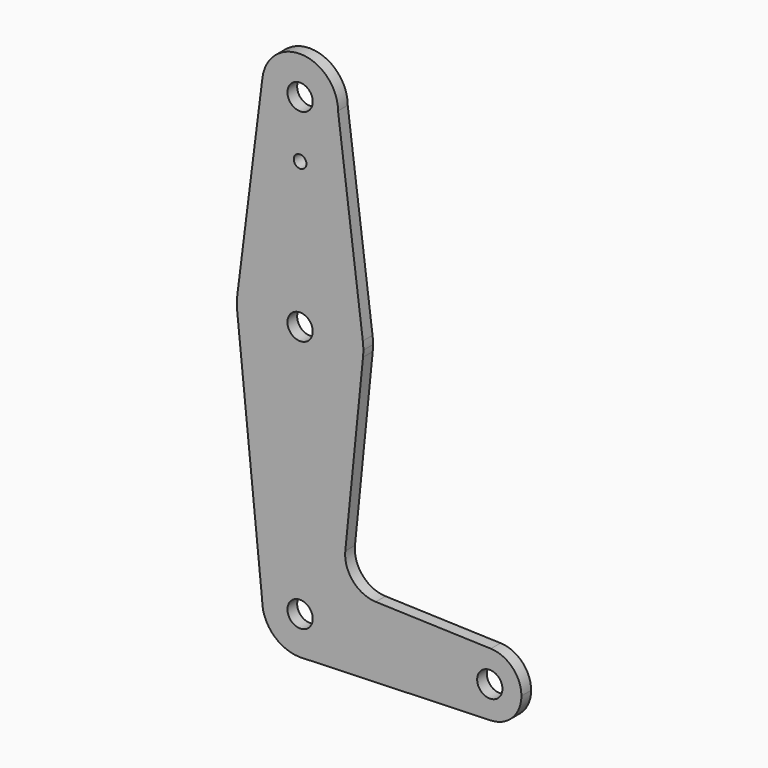
from build123d import *

# Parameters (mm, degrees)
F0_R     = 3.175
F0_R_2   = 1.5875
F1_DEPTH = 3.048


with BuildPart() as f1:
    # F0 (on Front) → F1 (new body)
    with BuildSketch(Plane.XZ):
        with BuildLine():
            ThreePointArc((0.632547, -9.503973), (6.955237, -6.507711), (9.525, 0))
            ThreePointArc((9.525, 0), (0, 9.525), (-9.525, 0))
            ThreePointArc((-9.525, 0), (-6.735192, -6.735192), (0, -9.525))
            Line((0, -9.525), (0.632547, -9.503973))
        make_face()
        Circle(F0_R, mode=Mode.SUBTRACT)
        with BuildLine():
            ThreePointArc((-9.525, 0), (0, 9.525), (9.525, 0))
            ThreePointArc((9.525, 0), (6.955237, -6.507711), (0.632547, -9.503973))
            Line((0.632547, -9.503973), (47.888707, -7.933118))
            ThreePointArc((47.888707, -7.933118), (39.6875, 0.000438), (47.889583, 7.933089))
            Line((47.889583, 7.933089), (18.990985, 8.896911))
            ThreePointArc((18.990985, 8.896911), (13.271886, 11.608559), (11.345642, 17.637713))
            Line((11.345642, 17.637713), (15.795426, 61.9125))
            ThreePointArc((15.795426, 61.9125), (0.006091, 47.625001), (-15.794203, 61.90038))
            Line((-15.794203, 61.90038), (-9.525, 0))
        make_face()
        with BuildLine():
            ThreePointArc((0, -9.525), (0.316448, -9.519742), (0.632547, -9.503973))
            Line((0.632547, -9.503973), (0, -9.525))
        make_face()
        with BuildLine():
            ThreePointArc((-15.750488, 65.484375), (-15.873819, 63.693615), (-15.794203, 61.90038))
            ThreePointArc((-15.794203, 61.90038), (0.006091, 47.625001), (15.795426, 61.9125))
            ThreePointArc((15.795426, 61.9125), (15.855094, 62.705253), (15.875, 63.5))
            ThreePointArc((15.875, 63.5), (15.843082, 64.506168), (15.747457, 65.508289))
            ThreePointArc((15.747457, 65.508289), (-0.012053, 79.374995), (-15.750488, 65.484375))
        make_face()
        with Locations((0, 63.5)):
            Circle(F0_R, mode=Mode.SUBTRACT)
        with BuildLine():
            ThreePointArc((47.889583, 7.933089), (39.6875, 0.000438), (47.888707, -7.933118))
            ThreePointArc((47.888707, -7.933118), (53.330133, -5.518638), (55.5625, 0))
            ThreePointArc((55.5625, 0), (53.330438, 5.518323), (47.889583, 7.933089))
        make_face()
        with Locations((47.625, 0)):
            Circle(F0_R, mode=Mode.SUBTRACT)
        with BuildLine():
            Line((-9.450293, 115.490625), (-15.750488, 65.484375))
            ThreePointArc((-15.750488, 65.484375), (-0.012053, 79.374995), (15.747457, 65.508289))
            Line((15.747457, 65.508289), (9.525, 114.3))
            ThreePointArc((9.525, 114.3), (-0.596483, 104.793695), (-9.450293, 115.490625))
        make_face()
        with Locations((0, 100.0252)):
            Circle(F0_R_2, mode=Mode.SUBTRACT)
        with BuildLine():
            ThreePointArc((9.525, 114.3), (0.596483, 123.806305), (-9.450293, 115.490625))
            ThreePointArc((-9.450293, 115.490625), (-0.596483, 104.793695), (9.525, 114.3))
        make_face()
        with Locations((0, 114.3)):
            Circle(F0_R, mode=Mode.SUBTRACT)
    extrude(amount=F1_DEPTH)


solid = f1.part
